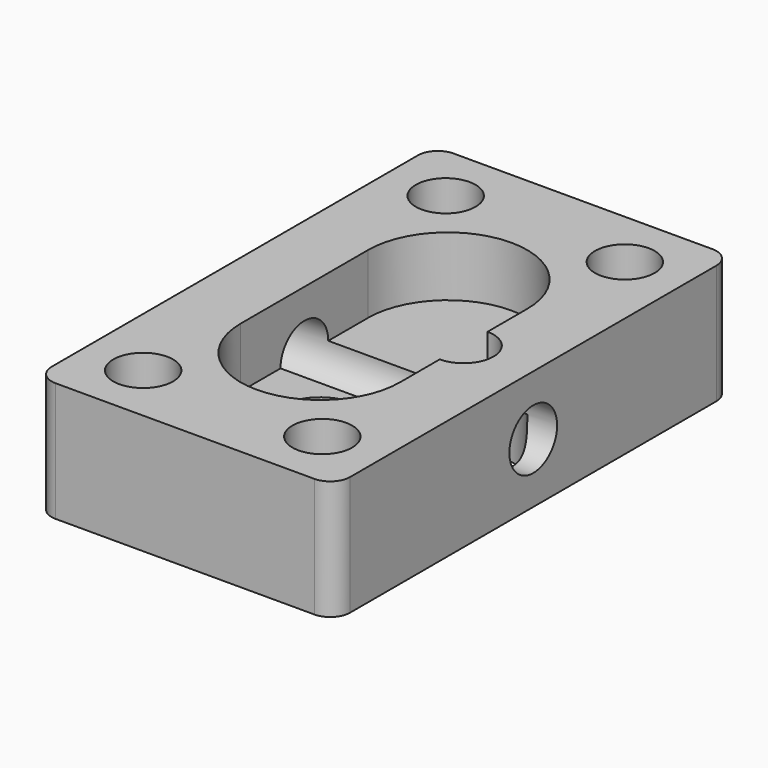
from build123d import *

# Parameters (mm, degrees)
SKETCH_W                        = 15
SKETCH_H                        = 25
PAD_DEPTH                       = 6
POCKET_DEPTH                    = 3
SKETCH002_R                     = 2.5
POCKET001_DEPTH                 = 3
SKETCH003_R                     = 1.5
POCKET002_DEPTH                 = 6.001
SKETCH004_R                     = 2
POCKET003_DEPTH                 = 1.5
SKETCH005_R                     = 1.5
POCKET004_DEPTH                 = 65.532504
SKETCH005_LINEARPATTERN_2_R     = 1.5
POCKET004_LINEARPATTERN_2_DEPTH = 65.532504
LINEARPATTERN001_COUNT          = 2
LINEARPATTERN001_PITCH          = 19
HOLE_D                          = 3
HOLE_DEPTH                      = 25
HOLE_CBORE_D                    = 5
HOLE_CBORE_DEPTH                = 1.5
FILLET_R                        = 1


with BuildPart() as part:
    # Sketch → Pad (new body)
    with BuildSketch(Plane.XY):
        Rectangle(SKETCH_W, SKETCH_H)
    extrude(amount=PAD_DEPTH)

    # Sketch001 (on Face6 of Pad) → Pocket (cut)
    with BuildSketch(Plane.XY.offset(6)):
        with BuildLine():
            Line((4, 4), (4, -4))
            ThreePointArc((-4, -4), (0, -8), (4, -4))
            Line((-4, -4), (-4, 4))
            ThreePointArc((4, 4), (0, 8), (-4, 4))
        make_face()
    extrude(amount=-POCKET_DEPTH, mode=Mode.SUBTRACT)

    # Sketch002 (on Face4 of Pocket) → Pocket001 (cut)
    with BuildSketch(Plane(origin=(0, 0, 0), x_dir=(1, 0, 0), z_dir=(0, 0, -1))):
        with Locations((4, 0)):
            Circle(SKETCH002_R)
    extrude(amount=-POCKET001_DEPTH, mode=Mode.SUBTRACT)

    # Sketch003 (on Face5 of Pocket001) → Pocket002 (cut, through all)
    with BuildSketch(Plane.XY.offset(6)):
        with Locations((4, 0)):
            Circle(SKETCH003_R)
    extrude(amount=-POCKET002_DEPTH, mode=Mode.SUBTRACT)

    # Sketch004 (on Face14 of Pocket002) → Pocket003 (cut)
    with BuildSketch(Plane.XY.offset(3)):
        with Locations((0, -4)):
            Circle(SKETCH004_R)
    extrude(amount=-POCKET003_DEPTH, mode=Mode.SUBTRACT)

    # Sketch005 (on Face5 of Pocket003) → Pocket004 (cut, through all)
    with BuildSketch(Plane.XY.offset(6)):
        with Locations((-4.5, 9.5)):
            Circle(SKETCH005_R)
    pocket004 = extrude(amount=-POCKET004_DEPTH, mode=Mode.SUBTRACT)

    # Sketch005 LinearPattern 2 → Pocket004 LinearPattern 2 (cut, through all)
    with BuildSketch(Plane(origin=(9, 0, 6), x_dir=(1, 0, 0), z_dir=(0, 0, 1))):
        with Locations((-4.5, 9.5)):
            Circle(SKETCH005_LINEARPATTERN_2_R)
    pocket004_linearpattern_2 = extrude(amount=-POCKET004_LINEARPATTERN_2_DEPTH, mode=Mode.SUBTRACT)

    # LinearPattern001: Pocket004, Pocket004 LinearPattern 2 ×2
    with Locations(*[(0, -i * LINEARPATTERN001_PITCH, 0) for i in range(1, LINEARPATTERN001_COUNT)]):
        add(pocket004, mode=Mode.SUBTRACT)
        add(pocket004_linearpattern_2, mode=Mode.SUBTRACT)

    # Hole
    with Locations(Plane(origin=(-7.5, 0, 0), x_dir=(0, -1, 0), z_dir=(-1, 0, 0))):
        with Locations((0, 3)):
            CounterBoreHole(HOLE_D / 2, HOLE_CBORE_D / 2, HOLE_CBORE_DEPTH, depth=HOLE_DEPTH)

    # Fillet
    fillet_edges = [part.edges().sort_by_distance(p)[0] for p in [
        (-7.5, -12.5, 3),
        (7.5, -12.5, 3),
        (-7.5, 12.5, 3),
        (7.5, 12.5, 3),
    ]]
    fillet(fillet_edges, radius=FILLET_R)


solid = part.part
